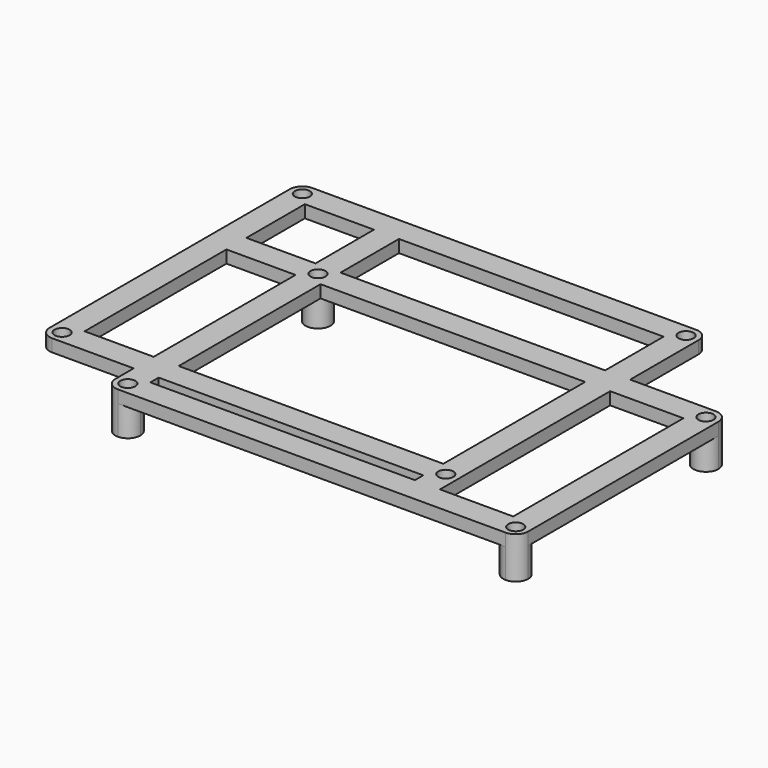
from build123d import *

# Parameters (mm, degrees)
F0_W     = 63.4370741248
F0_H     = 2.5
F0_W_2   = 16.5629258752
F0_H_2   = 42.5
F0_R     = 3
F0_H_3   = 17.5
F0_R_2   = 1.8
F1_DEPTH = 3
F2_DEPTH = 10


with BuildPart() as f1:
    # F0 (on Top) → F1 (new body)
    with BuildSketch(Plane.XY):
        with BuildLine():
            ThreePointArc((-49.5, -28.5), (-46.5, -25.5), (-43.5, -28.5))
            ThreePointArc((-43.5, -28.5), (-44.3786796564, -30.6213203436), (-46.5, -31.5))
            Line((-46.5, -31.5), (19.9370741248, -31.5))
            Line((19.9370741248, -31.5), (25.9370741248, -31.5))
            Line((25.9370741248, -31.5), (46.5, -31.5))
            ThreePointArc((46.5, -31.5), (44.3786796564, -26.3786796564), (49.5, -28.5))
            Line((49.5, -28.5), (49.5, 28.5))
            ThreePointArc((49.5, 28.5), (44.3786796564, 26.3786796564), (46.5, 31.5))
            Line((46.5, 31.5), (25.9370741248, 31.5))
            Line((25.9370741248, 31.5), (25.9370741248, 52))
            ThreePointArc((25.9370741248, 52), (20.8157537813, 49.8786796564), (22.9370741248, 55))
            Line((22.9370741248, 55), (-69.0629258752, 55))
            ThreePointArc((-69.0629258752, 55), (-66.9416055316, 54.1213203436), (-66.0629258752, 52))
            ThreePointArc((-66.0629258752, 52), (-69.0629258752, 49), (-72.0629258752, 52))
            Line((-72.0629258752, 52), (-72.0629258752, -20))
            ThreePointArc((-72.0629258752, -20), (-69.0629258752, -17), (-66.0629258752, -20))
            ThreePointArc((-66.0629258752, -20), (-66.9416055316, -22.1213203436), (-69.0629258752, -23))
            Line((-69.0629258752, -23), (-49.5, -23))
            Line((-49.5, -23), (-49.5, -28.5))
        make_face()
        with Locations((-11.7814629376, -24.25)):
            Rectangle(F0_W, F0_H, mode=Mode.SUBTRACT)
        with Locations((-57.7814629376, 4.25)):
            Rectangle(F0_W_2, F0_H_2, mode=Mode.SUBTRACT)
        with Locations((-11.7814629376, 4.25)):
            Rectangle(F0_W, F0_H_2, mode=Mode.SUBTRACT)
        with Locations((22.9370741248, -20)):
            Circle(F0_R, mode=Mode.SUBTRACT)
        Polygon((25.9370741248, -25.5), (25.9370741248, -20), (25.9370741248, 25.5), (43.5, 25.5), (43.5, -25.5), align=None, mode=Mode.SUBTRACT)
        with Locations((-46.5, 28.5)):
            Circle(F0_R, mode=Mode.SUBTRACT)
        with Locations((-57.7814629376, 40.25)):
            Rectangle(F0_W_2, F0_H_3, mode=Mode.SUBTRACT)
        with Locations((-11.7814629376, 40.25)):
            Rectangle(F0_W, F0_H_3, mode=Mode.SUBTRACT)
        with BuildLine():
            ThreePointArc((-72.0629258752, -20), (-71.1842462187, -22.1213203436), (-69.0629258752, -23))
            ThreePointArc((-69.0629258752, -23), (-66.9416055316, -22.1213203436), (-66.0629258752, -20))
            ThreePointArc((-66.0629258752, -20), (-69.0629258752, -17), (-72.0629258752, -20))
        make_face()
        with Locations((-69.0629258752, -20)):
            Circle(F0_R_2, mode=Mode.SUBTRACT)
        with Locations((22.9370741248, -20)):
            Circle(F0_R)
        with Locations((22.9370741248, -20)):
            Circle(F0_R_2, mode=Mode.SUBTRACT)
        with BuildLine():
            ThreePointArc((25.9370741248, 52), (25.0583944684, 54.1213203436), (22.9370741248, 55))
            ThreePointArc((22.9370741248, 55), (20.8157537813, 49.8786796564), (25.9370741248, 52))
        make_face()
        with Locations((22.9370741248, 52)):
            Circle(F0_R_2, mode=Mode.SUBTRACT)
        with BuildLine():
            ThreePointArc((-69.0629258752, 55), (-71.1842462187, 54.1213203436), (-72.0629258752, 52))
            ThreePointArc((-72.0629258752, 52), (-69.0629258752, 49), (-66.0629258752, 52))
            ThreePointArc((-66.0629258752, 52), (-66.9416055316, 54.1213203436), (-69.0629258752, 55))
        make_face()
        with Locations((-69.0629258752, 52)):
            Circle(F0_R_2, mode=Mode.SUBTRACT)
    extrude(amount=-F1_DEPTH)

    # F0 (on Top) → F2 (join)
    with BuildSketch(Plane.XY):
        with BuildLine():
            ThreePointArc((46.5, 31.5), (44.3786796564, 26.3786796564), (49.5, 28.5))
            ThreePointArc((49.5, 28.5), (48.6213203436, 30.6213203436), (46.5, 31.5))
        make_face()
        with Locations((46.5, 28.5)):
            Circle(F0_R_2, mode=Mode.SUBTRACT)
        with BuildLine():
            ThreePointArc((49.5, -28.5), (44.3786796564, -26.3786796564), (46.5, -31.5))
            ThreePointArc((46.5, -31.5), (48.6213203436, -30.6213203436), (49.5, -28.5))
        make_face()
        with Locations((46.5, -28.5)):
            Circle(F0_R_2, mode=Mode.SUBTRACT)
        with BuildLine():
            ThreePointArc((-46.5, -31.5), (-44.3786796564, -30.6213203436), (-43.5, -28.5))
            ThreePointArc((-43.5, -28.5), (-46.5, -25.5), (-49.5, -28.5))
            ThreePointArc((-49.5, -28.5), (-48.6213203436, -30.6213203436), (-46.5, -31.5))
        make_face()
        with Locations((-46.5, -28.5)):
            Circle(F0_R_2, mode=Mode.SUBTRACT)
        with Locations((-46.5, 28.5)):
            Circle(F0_R)
        with Locations((-46.5, 28.5)):
            Circle(F0_R_2, mode=Mode.SUBTRACT)
    extrude(amount=-F2_DEPTH)


solid = f1.part
